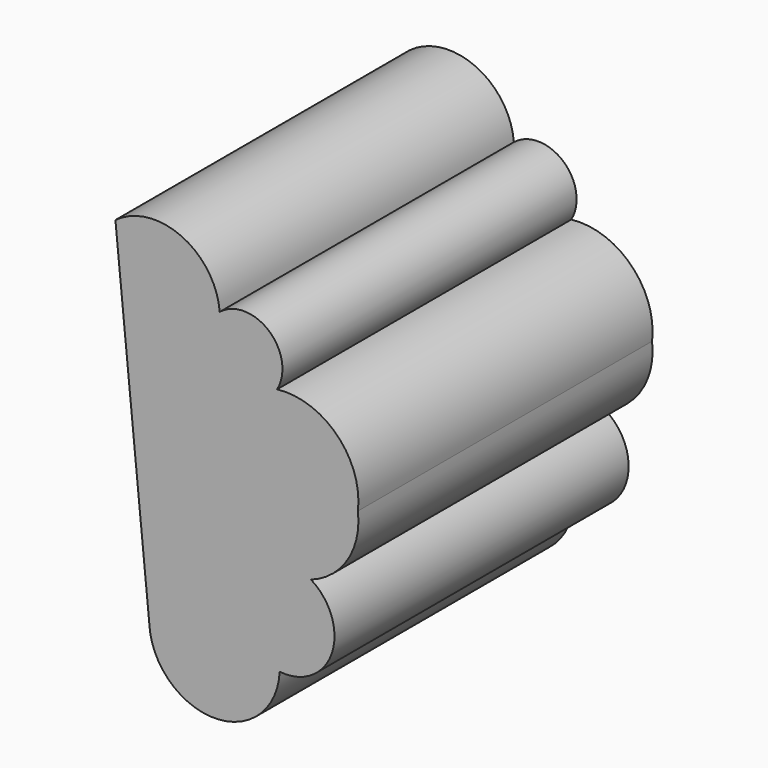
from build123d import *

# Parameters (mm, degrees)
F1_DEPTH = 25.4


with BuildPart() as f1:
    # F0 (on Front) → F1 (new body, symmetric)
    with BuildSketch(Plane.XZ):
        with BuildLine():
            Line((35.127934, -4.863865), (26.841344, 36.20879))
            ThreePointArc((26.841344, 36.20879), (21.548443, 43.702101), (12.429882, 42.693947))
            Line((12.429882, 42.693947), (17.113609, -4.863865))
            ThreePointArc((17.113609, -4.863865), (26.120772, -13.431921), (35.127934, -4.863865))
        make_face()
        with BuildLine():
            ThreePointArc((34.767646, 29.363347), (33.665212, 36.098477), (26.841344, 36.20879))
            Line((26.841344, 36.20879), (35.127934, -4.863865))
            ThreePointArc((35.127934, -4.863865), (42.329691, -0.286863), (39.451364, 7.746161))
            ThreePointArc((39.451364, 7.746161), (44.526484, 11.832876), (45.936525, 18.194469))
            ThreePointArc((45.936525, 18.194469), (43.061412, 26.488234), (34.767646, 29.363347))
        make_face()
    extrude(amount=F1_DEPTH, both=True)


solid = f1.part
